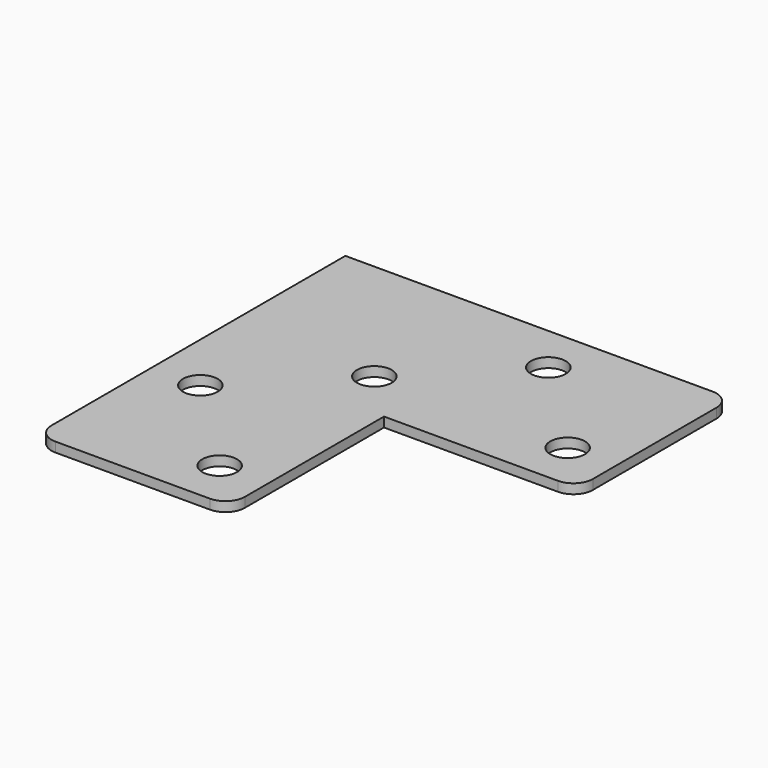
from build123d import *

# Parameters (mm, degrees)
F1_DEPTH = 5
F2_R     = 9
F3_DEPTH = 25
F4_R     = 10


with BuildPart() as f1:
    # F0 (on Top) → F1 (new body)
    with BuildSketch(Plane.XY):
        Polygon((200, 0), (0, 0), (0, -200), (100, -200), (100, -100), (200, -100), align=None)
    extrude(amount=F1_DEPTH)

    # F2 (on face) → F3 (cut)
    with BuildSketch(Plane.XY.offset(5)):
        with Locations((175.000086, -74.999993)):
            Circle(F2_R)
        with Locations((125.000086, -24.999993)):
            Circle(F2_R)
        with Locations((75.000086, -74.999993)):
            Circle(F2_R)
        with Locations((75.000086, -174.999993)):
            Circle(F2_R)
        with Locations((25.000086, -124.999993)):
            Circle(F2_R)
    extrude(amount=-F3_DEPTH, mode=Mode.SUBTRACT)

    # F4
    f4_edges = [f1.edges().sort_by_distance(p)[0] for p in [
        (0, -200, 2.5),
        (100, -200, 2.5),
        (200, -100, 2.5),
        (200, 0, 2.5),
    ]]
    fillet(f4_edges, radius=F4_R)


solid = f1.part
